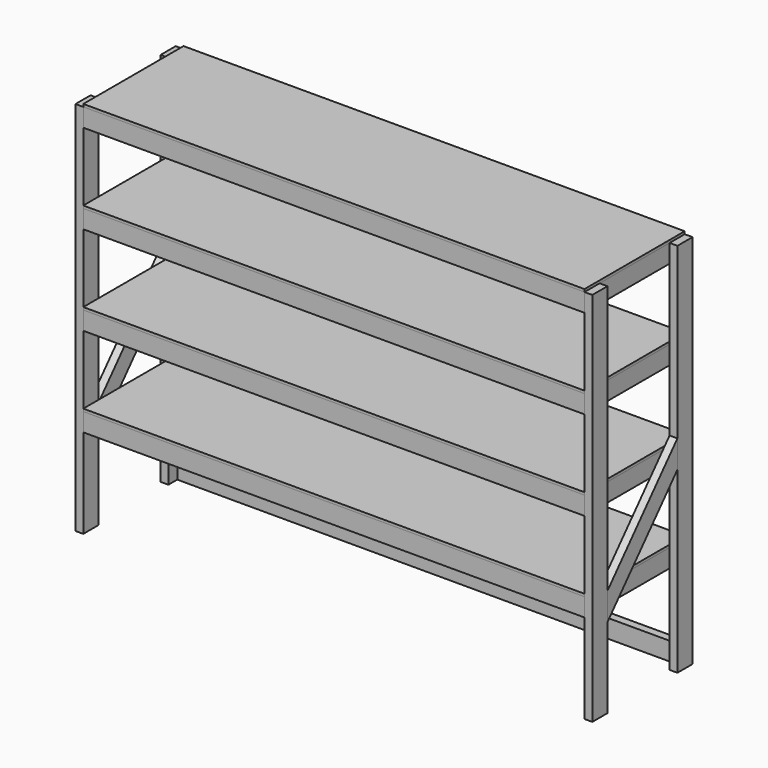
from build123d import *

# Parameters (mm, degrees)
F1_W          = 38.1
F1_H          = 92.075
F2_DEPTH      = 1828.8
F3_W          = 38.1
F3_H          = 88.9
F4_DEPTH      = 1219.2
F4_DEPTH_BACK = 1219.2
F5_W          = 38.1
F5_H          = 88.9
F6_DEPTH      = 266.7
F6_DEPTH_BACK = 266.7
F7_W          = 2438.4
F7_H          = 12.7
F8_DEPTH      = 304.8
F8_DEPTH_BACK = 304.8
F10_DEPTH     = 38.1
F12_DEPTH     = 38.1


with BuildPart() as f2:
    # F1 (on Top) → F2 (new body)
    with BuildSketch(Plane.XY):
        with Locations((-1238.25, -258.7625)):
            Rectangle(F1_W, F1_H)
        with Locations((-1238.25, 258.7625)):
            Rectangle(F1_W, F1_H)
        with Locations((1238.25, -258.7625)):
            Rectangle(F1_W, F1_H)
        with Locations((1238.25, 258.7625)):
            Rectangle(F1_W, F1_H)
    extrude(amount=F2_DEPTH)


with BuildPart() as f4:
    # F3 (on Right) → F4 (new body, two sides)
    with BuildSketch(Plane.YZ) as f4_sk:
        with Locations((285.75, 1784.35)):
            Rectangle(F3_W, F3_H)
        with Locations((285.75, 1349.375)):
            Rectangle(F3_W, F3_H)
        with Locations((285.75, 914.4)):
            Rectangle(F3_W, F3_H)
        with Locations((285.75, 479.425)):
            Rectangle(F3_W, F3_H)
        with Locations((285.75, 44.45)):
            Rectangle(F3_W, F3_H)
        with Locations((-285.75, 1784.35)):
            Rectangle(F3_W, F3_H)
        with Locations((-285.75, 479.425)):
            Rectangle(F3_W, F3_H)
        with Locations((-285.75, 1349.375)):
            Rectangle(F3_W, F3_H)
        with Locations((-285.75, 914.4)):
            Rectangle(F3_W, F3_H)
    extrude(amount=F4_DEPTH)
    extrude(f4_sk.sketch, amount=-F4_DEPTH_BACK)


with BuildPart() as f6:
    # F5 (on Front) → F6 (new body, two sides)
    with BuildSketch(Plane.XZ) as f6_sk:
        with Locations((-1200.15, 914.4)):
            Rectangle(F5_W, F5_H)
        with Locations((-1200.15, 1349.375)):
            Rectangle(F5_W, F5_H)
        with Locations((-1200.15, 1784.35)):
            Rectangle(F5_W, F5_H)
        with Locations((-1200.15, 479.425)):
            Rectangle(F5_W, F5_H)
        with Locations((-600.075, 1784.35)):
            Rectangle(F5_W, F5_H)
        with Locations((-600.075, 1349.375)):
            Rectangle(F5_W, F5_H)
        with Locations((-600.075, 914.4)):
            Rectangle(F5_W, F5_H)
        with Locations((-600.075, 479.425)):
            Rectangle(F5_W, F5_H)
        Polygon((19.05, 1828.8), (0, 1828.8), (-19.05, 1828.8), (-19.05, 1739.9), (0, 1739.9), (19.05, 1739.9), align=None)
        Polygon((19.05, 1393.825), (0, 1393.825), (-19.05, 1393.825), (-19.05, 1304.925), (0, 1304.925), (19.05, 1304.925), align=None)
        Polygon((19.05, 958.85), (0, 958.85), (-19.05, 958.85), (-19.05, 869.95), (0, 869.95), (19.05, 869.95), align=None)
        Polygon((19.05, 523.875), (0, 523.875), (-19.05, 523.875), (-19.05, 434.975), (0, 434.975), (19.05, 434.975), align=None)
        with Locations((600.075, 1784.35)):
            Rectangle(F5_W, F5_H)
        with Locations((600.075, 1349.375)):
            Rectangle(F5_W, F5_H)
        with Locations((600.075, 914.4)):
            Rectangle(F5_W, F5_H)
        with Locations((1200.15, 1349.375)):
            Rectangle(F5_W, F5_H)
        with Locations((600.075, 479.425)):
            Rectangle(F5_W, F5_H)
        with Locations((1200.15, 914.4)):
            Rectangle(F5_W, F5_H)
        with Locations((1200.15, 479.425)):
            Rectangle(F5_W, F5_H)
        with Locations((1200.15, 1784.35)):
            Rectangle(F5_W, F5_H)
    extrude(amount=F6_DEPTH)
    extrude(f6_sk.sketch, amount=-F6_DEPTH_BACK)


with BuildPart() as f8:
    # F7 (on Front) → F8 (new body, two sides)
    with BuildSketch(Plane.XZ) as f8_sk:
        with Locations((0, 530.225)):
            Rectangle(F7_W, F7_H)
        with Locations((0, 965.2)):
            Rectangle(F7_W, F7_H)
        with Locations((0, 1400.175)):
            Rectangle(F7_W, F7_H)
        with Locations((0, 1835.15)):
            Rectangle(F7_W, F7_H)
    extrude(amount=F8_DEPTH)
    extrude(f8_sk.sketch, amount=-F8_DEPTH_BACK)


with BuildPart() as f10:
    # F9 (on face) → F10 (new body)
    with BuildSketch(Plane.YZ.offset(1219.2)):
        Polygon((-212.725, 523.875), (-212.725, 389.830137), (212.725, 869.95), (212.725, 1003.994863), align=None)
    extrude(amount=F10_DEPTH)


with BuildPart() as f12:
    # F11 (on face) → F12 (new body)
    with BuildSketch(Plane(origin=(-1219.2, 0, 0), x_dir=(0, -1, 0), z_dir=(-1, 0, 0))):
        Polygon((212.725, 523.875), (-212.725, 1003.994863), (-212.725, 869.95), (212.725, 389.830137), align=None)
    extrude(amount=F12_DEPTH)


solid = Compound([f2.part, f4.part, f6.part, f8.part, f10.part, f12.part])
